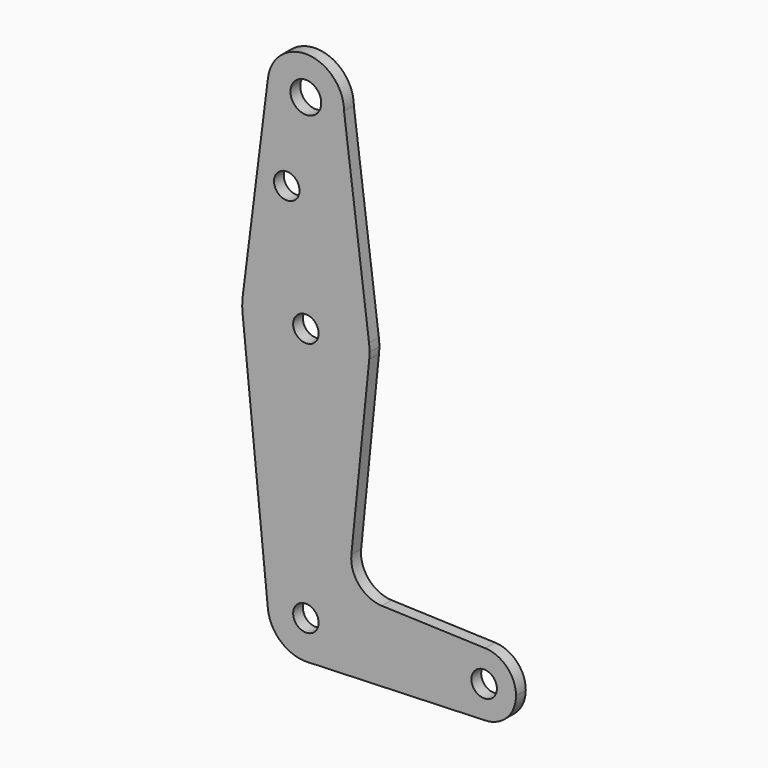
from build123d import *

# Parameters (mm, degrees)
F0_R     = 3.175
F0_R_2   = 3.835167
F1_DEPTH = 3.048


with BuildPart() as f1:
    # F0 (on Front) → F1 (new body)
    with BuildSketch(Plane.XZ):
        with BuildLine():
            ThreePointArc((0.341271, -9.518884), (6.854788, -6.613434), (9.525, 0))
            ThreePointArc((9.525, 0), (-0.476848, 9.513056), (-9.477255, -0.9525))
            ThreePointArc((-9.477255, -0.9525), (-6.261972, -7.177279), (0.341271, -9.518884))
        make_face()
        Circle(F0_R, mode=Mode.SUBTRACT)
        with BuildLine():
            ThreePointArc((-9.477255, -0.9525), (-0.476848, 9.513056), (9.525, 0))
            ThreePointArc((9.525, 0), (6.854788, -6.613434), (0.341271, -9.518884))
            Line((0.341271, -9.518884), (44.45, -7.9375))
            ThreePointArc((44.45, -7.9375), (36.513756, 0.141225), (44.732405, 7.932475))
            Line((44.732405, 7.932475), (18.968328, 8.849706))
            ThreePointArc((18.968328, 8.849706), (13.261204, 11.567463), (11.340836, 17.589892))
            Line((11.340836, 17.589892), (15.795426, 61.9125))
            ThreePointArc((15.795426, 61.9125), (0, 47.625), (-15.795426, 61.9125))
            Line((-15.795426, 61.9125), (-9.477255, -0.9525))
        make_face()
        with BuildLine():
            ThreePointArc((-15.750488, 65.484375), (-15.873744, 63.699705), (-15.795426, 61.9125))
            ThreePointArc((-15.795426, 61.9125), (0, 47.625), (15.795426, 61.9125))
            ThreePointArc((15.795426, 61.9125), (15.855094, 62.705253), (15.875, 63.5))
            ThreePointArc((15.875, 63.5), (15.843082, 64.506168), (15.747457, 65.508289))
            ThreePointArc((15.747457, 65.508289), (-0.012053, 79.374995), (-15.750488, 65.484375))
        make_face()
        with Locations((0, 63.5)):
            Circle(F0_R, mode=Mode.SUBTRACT)
        with BuildLine():
            ThreePointArc((44.732405, 7.932475), (36.513756, 0.141225), (44.45, -7.9375))
            ThreePointArc((44.45, -7.9375), (50.06266, -5.61266), (52.3875, 0))
            ThreePointArc((52.3875, 0), (50.161633, 5.51191), (44.732405, 7.932475))
        make_face()
        with Locations((44.45, 0)):
            Circle(F0_R, mode=Mode.SUBTRACT)
        with BuildLine():
            Line((-9.450293, 115.490625), (-15.750488, 65.484375))
            ThreePointArc((-15.750488, 65.484375), (-0.012053, 79.374995), (15.747457, 65.508289))
            Line((15.747457, 65.508289), (9.525, 114.3))
            ThreePointArc((9.525, 114.3), (-0.596483, 104.793695), (-9.450293, 115.490625))
        make_face()
        with Locations((-4.7625, 93.297001)):
            Circle(F0_R, mode=Mode.SUBTRACT)
        with BuildLine():
            ThreePointArc((9.525, 114.3), (0.596483, 123.806305), (-9.450293, 115.490625))
            ThreePointArc((-9.450293, 115.490625), (-0.596483, 104.793695), (9.525, 114.3))
        make_face()
        with Locations((0, 114.3)):
            Circle(F0_R_2, mode=Mode.SUBTRACT)
    extrude(amount=F1_DEPTH)


solid = f1.part
